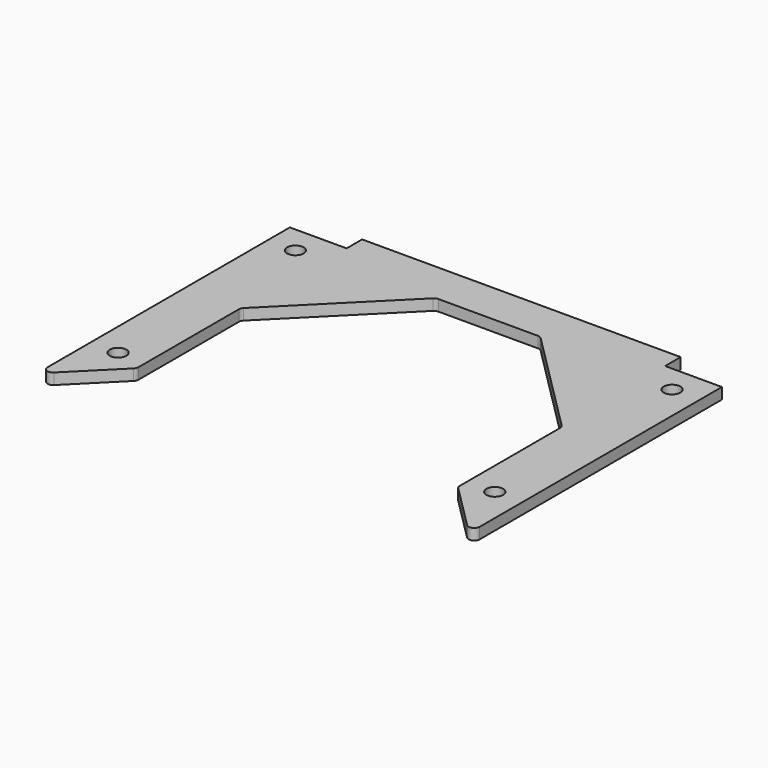
from build123d import *

# Parameters (mm, degrees)
SKETCH_R  = 3
PAD_DEPTH = 4


with BuildPart() as part:
    # Sketch → Pad (new body)
    with BuildSketch(Plane.XY):
        with BuildLine():
            Line((-78, -10), (-78, -119.313708))
            ThreePointArc((-78, -119.313708), (-76.765367, -121.161468), (-74.585786, -120.727922))
            Line((-74.585786, -120.727922), (-58.585786, -104.727922))
            ThreePointArc((-58.585786, -104.727922), (-58.152241, -104.079075), (-58, -103.313708))
            Line((-58, -58), (-58, -103.313708))
            ThreePointArc((-57.414214, -56.585786), (-57.847759, -57.234633), (-58, -58))
            Line((-57.414214, -56.585786), (-19.414214, -18.585786))
            ThreePointArc((-18, -18), (-18.765367, -18.152241), (-19.414214, -18.585786))
            Line((-18, -18), (18, -18))
            ThreePointArc((19.414214, -18.585786), (18.765367, -18.152241), (18, -18))
            Line((19.414214, -18.585786), (57.414214, -56.585786))
            ThreePointArc((58, -58), (57.847759, -57.234633), (57.414214, -56.585786))
            Line((58, -58), (58, -103.313708))
            ThreePointArc((58, -103.313708), (58.152241, -104.079075), (58.585786, -104.727922))
            Line((58.585786, -104.727922), (74.585786, -120.727922))
            ThreePointArc((74.585786, -120.727922), (76.765367, -121.161468), (78, -119.313708))
            Line((78, -119.313708), (78, -10))
            Line((57.5, -10), (78, -10))
            Line((57.5, -3), (57.5, -10))
            Line((57.5, -3), (-57.5, -3))
            Line((-57.5, -10), (-57.5, -3))
            Line((-78, -10), (-57.5, -10))
        make_face()
        with Locations((-68, -100)):
            Circle(SKETCH_R, mode=Mode.SUBTRACT)
        with Locations((68, -100)):
            Circle(SKETCH_R, mode=Mode.SUBTRACT)
        with Locations((-68, -20)):
            Circle(SKETCH_R, mode=Mode.SUBTRACT)
        with Locations((68, -20)):
            Circle(SKETCH_R, mode=Mode.SUBTRACT)
    extrude(amount=PAD_DEPTH)


solid = part.part
